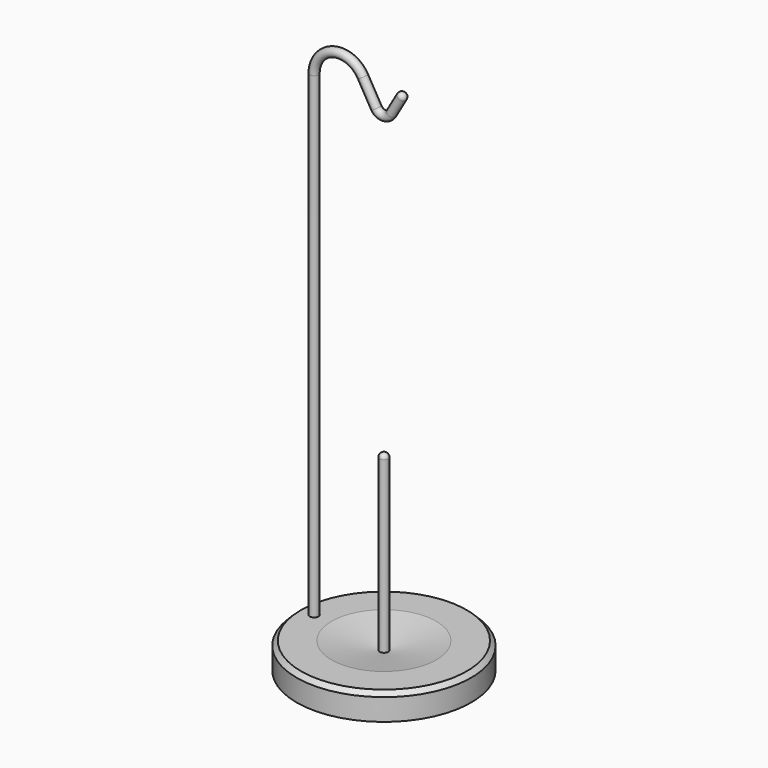
from build123d import *

# Parameters (mm, degrees)
F2_R      = 3.2385
F3_DEPTH  = 17.4625
F5_START  = 1.5875
F4_R      = 3.175
F5_DEPTH  = 13.6525
F7_START  = 1.5875
F6_R      = 3.175
F7_DEPTH  = 138.1125
F9_R      = 2.38125
F10_DEPTH = 12.7
F12_R     = 3.175
F14_R     = 3.175
F14_2_R   = 3.175


with BuildPart() as f1:
    # F0 (on Front) → F1 (revolve)
    with BuildSketch(Plane.XZ):
        Polygon((-63.5, 0), (0, 0), (0, 12.331942035), (-38.1, 19.05), (-60.325, 19.05), (-63.5, 15.875), align=None)
    revolve(axis=Axis((0, 0, 9.525), (0, 0, -1)))

    # F2 (on face) → F3 (cut)
    with BuildSketch(Plane.XY.offset(19.05)):
        with Locations((-50.8, 0)):
            Circle(F2_R)
    extrude(amount=-F3_DEPTH, mode=Mode.SUBTRACT)

    # F4 (on Top) → F5 (cut)
    with BuildSketch(Plane.XY.offset(F5_START)):
        Circle(F4_R)
    extrude(amount=F5_DEPTH, mode=Mode.SUBTRACT)

    # F9 (on offset) → F10 (cut)
    with BuildSketch(Plane.YZ.offset(-63.5)):
        with Locations((0, 12.7)):
            Circle(F9_R)
    extrude(amount=F10_DEPTH, mode=Mode.SUBTRACT)


with BuildPart() as f7:
    # F6 (on Top) → F7 (new body)
    with BuildSketch(Plane.XY.offset(F7_START)):
        with Locations((-0.0027317612, 0.0134480688)):
            Circle(F6_R)
    extrude(amount=F7_DEPTH)

    # F14
    f14_edges = [f7.edges().sort_by_distance(p)[0] for p in [
        (-3.177732, 0.013448, 139.7),
    ]]
    fillet(f14_edges, radius=F14_R)


with BuildPart() as f13:
    # F13: sweep along a path in F11
    with BuildLine(Plane.XZ) as f13_path:
        Line((-50.8, 1.5875), (-50.8, 366.0286357684))
        ThreePointArc((-50.8, 366.0286357684), (-36.6805028092, 384.4295227592), (-15.2522160579, 375.5536357684))
        Line((-15.2522160579, 375.5536357684), (-5.499261314, 358.6610226281))
        ThreePointArc((-5.499261314, 358.6610226281), (0, 355.4860226281), (5.499261314, 358.6610226281))
        Line((5.499261314, 358.6610226281), (14.6646968374, 374.5360226281))
    # F12 (on face) → F13 (sweep)
    with BuildSketch(Plane.XY.offset(1.5875)):
        with Locations((-50.8, 0)):
            Circle(F12_R)
    sweep(path=f13_path.line)

    # F14#2
    f14_2_edges = [f13.edges().sort_by_distance(p)[0] for p in [
        (11.915066, 0, 376.123523),
    ]]
    fillet(f14_2_edges, radius=F14_2_R)


solid = Compound([f1.part, f7.part, f13.part])
